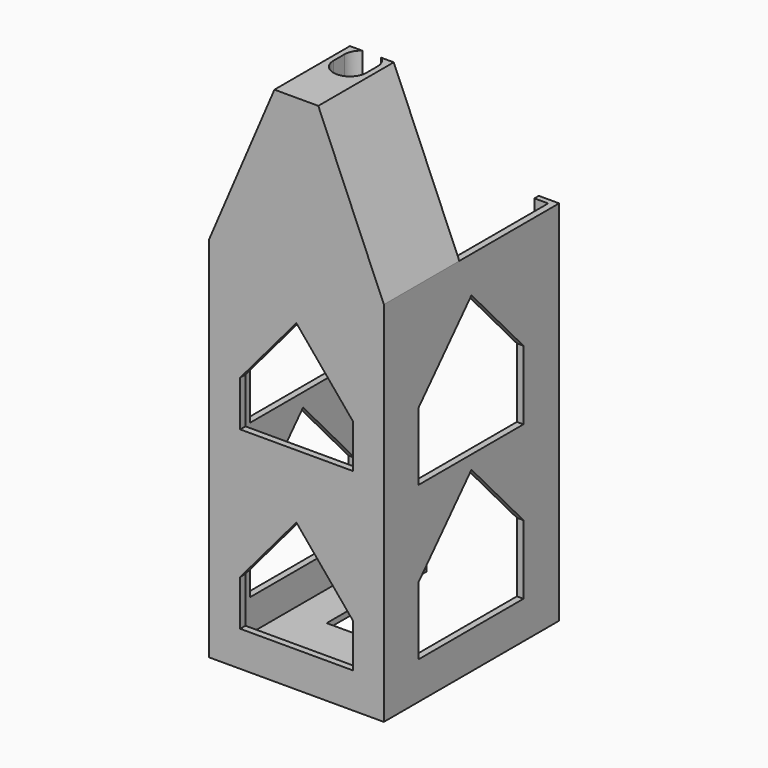
from build123d import *

# Parameters (mm, degrees)
PAD_DEPTH              = 66
SKETCH001_W            = 31.9
SKETCH001_H            = 39.95
PAD001_DEPTH           = 1
PAD002_DEPTH           = 1.2
PAD003_DEPTH           = 16
SKETCH011_W            = 16.471436
SKETCH011_H            = 30.415474
POCKET_DEPTH           = 5
POCKET001_DEPTH        = 8
POCKET002_DEPTH        = 5
LINEARPATTERN_COUNT    = 2
LINEARPATTERN_PITCH    = 32
POCKET003_DEPTH        = 31.901
LINEARPATTERN001_COUNT = 2
LINEARPATTERN001_PITCH = 28


with BuildPart() as part:
    # Sketch → Pad (new body)
    with BuildSketch(Plane.XY):
        Polygon((14.75, 37.75), (14.75, 0), (-14.75, 0), (-14.75, 37.75), (-12.25, 37.75), (-12.25, 38.75), (-15.95, 38.75), (-15.95, -1.2), (15.95, -1.2), (15.95, 38.75), (12.25, 38.75), (12.25, 37.75), align=None)
    extrude(amount=PAD_DEPTH)

    # Sketch001 (on Face13 of Pad) → Pad001 (join)
    with BuildSketch(Plane(origin=(0, 0, 0), x_dir=(1, 0, 0), z_dir=(0, 0, -1))):
        with Locations((0, -18.775)):
            Rectangle(SKETCH001_W, SKETCH001_H)
    extrude(amount=PAD001_DEPTH)

    # Sketch002 (on Face13 of Pad001) → Pad002 (join)
    with BuildSketch(Plane.XZ.offset(1.2)):
        Polygon((-15.95, 66), (-4, 94), (4, 94), (15.95, 66), align=None)
    extrude(amount=-PAD002_DEPTH)

    # Sketch007 (on Face8 of Pad002) → Pad003 (join)
    with BuildSketch(Plane(origin=(0, 0, 0), x_dir=(-1, 0, 0), z_dir=(0, 1, 0))):
        Polygon((-15.95, 66), (-14.7, 66), (-3.5, 88), (3.5, 88), (14.7, 66), (15.95, 66), (4, 94), (-4, 94), align=None)
    extrude(amount=PAD003_DEPTH)

    # Sketch011 (on Face24 of Pad003) → Pocket (cut)
    with BuildSketch(Plane(origin=(0, 0, -1), x_dir=(1, 0, 0), z_dir=(0, 0, -1))):
        with Locations((0, -31.207737)):
            Rectangle(SKETCH011_W, SKETCH011_H)
    extrude(amount=-POCKET_DEPTH, mode=Mode.SUBTRACT)

    # Sketch012 (on Face33 of Pocket) → Pocket001 (cut)
    with BuildSketch(Plane.XY.offset(94)):
        with BuildLine():
            ThreePointArc((2.985382, 13.549034), (-0.014618, 16.549034), (-3.014618, 13.549034))
            Line((-3.014618, 13.549034), (-3.014618, 11.03404))
            ThreePointArc((-3.014618, 11.03404), (-0.014618, 8.03404), (2.985382, 11.03404))
            Line((2.985382, 13.549034), (2.985382, 11.03404))
        make_face()
    extrude(amount=-POCKET001_DEPTH, mode=Mode.SUBTRACT)

    # Sketch014 (on Face30 of Pocket001) → Pocket002 (cut)
    with BuildSketch(Plane.XZ.offset(1.2)):
        Polygon((0, 25.833173), (-10.237929, 13.747521), (-10.237929, 5.434677), (10.297925, 5.434677), (10.297925, 13.443167), align=None)
    pocket002 = extrude(amount=-POCKET002_DEPTH, mode=Mode.SUBTRACT)

    # LinearPattern: Pocket002 ×2
    with Locations(*[(0, 0, i * LINEARPATTERN_PITCH) for i in range(1, LINEARPATTERN_COUNT)]):
        add(pocket002, mode=Mode.SUBTRACT)

    # Sketch015 (on Face29 of LinearPattern) → Pocket003 (cut, through all)
    with BuildSketch(Plane.YZ.offset(15.95)):
        Polygon((18.770079, 31.374571), (6.687755, 18.189028), (6.687755, 5.829207), (30.620473, 5.829207), (30.620473, 18.442136), align=None)
    pocket003 = extrude(amount=-POCKET003_DEPTH, mode=Mode.SUBTRACT)

    # LinearPattern001: Pocket003 ×2
    with Locations(*[(0, 0, i * LINEARPATTERN001_PITCH) for i in range(1, LINEARPATTERN001_COUNT)]):
        add(pocket003, mode=Mode.SUBTRACT)


solid = part.part
